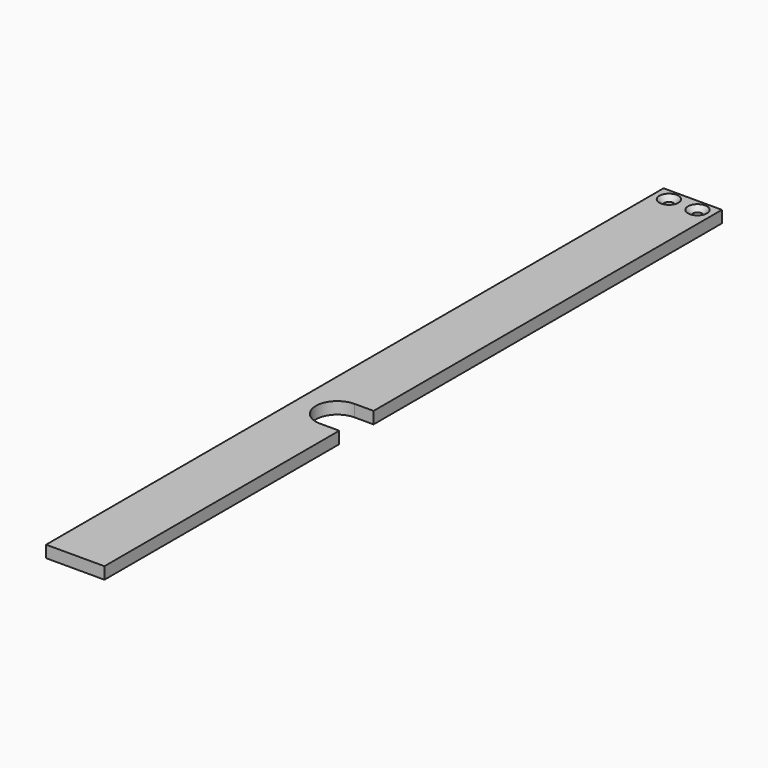
from build123d import *

# Parameters (mm, degrees)
PAD025_DEPTH    = 5
SKETCH057_R     = 2
POCKET035_DEPTH = 5.001
CHAMFER019_SIZE = 2


with BuildPart() as part:
    # Sketch051 → Pad025 (new body)
    with BuildSketch(Plane.XY):
        with BuildLine():
            Line((-171.323184, 15.404903), (-171.323184, -107.8))
            Line((-171.323184, -107.8), (-195.823184, -107.8))
            Line((-195.823184, -107.8), (-195.823184, 216.2))
            Line((-195.823184, 216.2), (-171.323184, 216.2))
            Line((-171.323184, 216.2), (-171.323184, 33.404903))
            Line((-179.323184, 33.404903), (-171.323184, 33.404903))
            ThreePointArc((-179.323184, 33.404903), (-188.323184, 24.404903), (-179.323184, 15.404903))
            Line((-179.323184, 15.404903), (-171.323184, 15.404903))
        make_face()
    extrude(amount=PAD025_DEPTH)

    # Sketch057 (on Face10 of Pad025) → Pocket035 (cut, through all)
    with BuildSketch(Plane.XY.offset(5)):
        with Locations((-189.573184, 211.2)):
            Circle(SKETCH057_R)
        with Locations((-177.573184, 211.2)):
            Circle(SKETCH057_R)
    extrude(amount=-POCKET035_DEPTH, mode=Mode.SUBTRACT)

    # Chamfer019
    chamfer019_edges = [part.edges().sort_by_distance(p)[0] for p in [
        (-191.573184, 211.2, 5),
        (-179.573184, 211.2, 5),
    ]]
    chamfer(chamfer019_edges, length=CHAMFER019_SIZE)


with BuildPart() as part_1:
    # Body018 placement: moved
    add(part.part.moved(Location((0, 0, 15.5))))


solid = part_1.part
